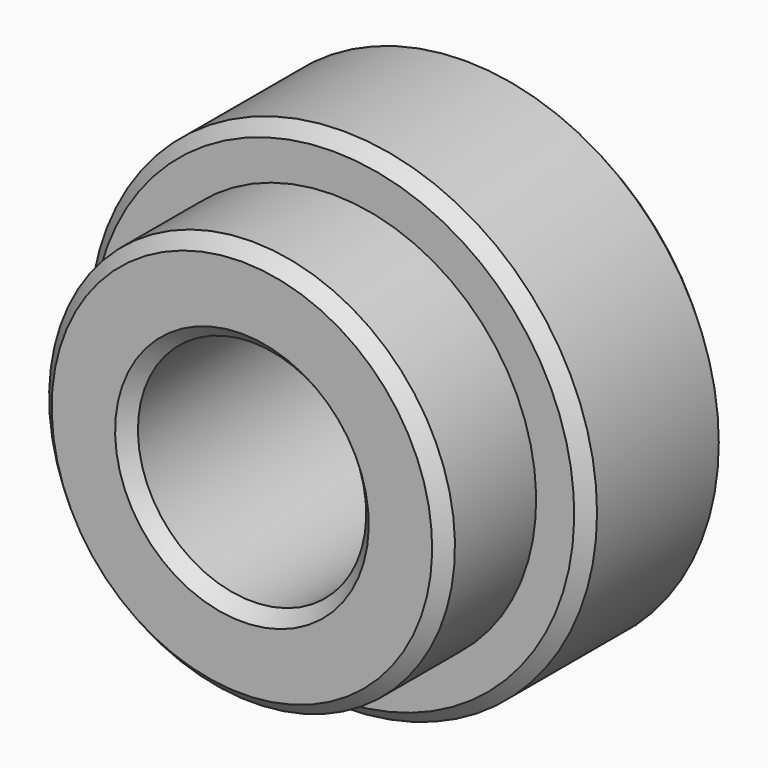
from build123d import *

# Parameters (mm, degrees)
F2_SIZE = 0.5


with BuildPart() as f1:
    # F0 (on Right) → F1 (revolve)
    with BuildSketch(Plane.YZ):
        Polygon((4.5, 8), (0, 8), (0, 4.5), (11.5, 4.5), (11.5, 10), (4.5, 10), align=None)
    revolve(axis=Axis((0, 13.707888, 0), (0, 1, 0)))

    # F2
    f2_edges = [f1.edges().sort_by_distance(p)[0] for p in [
        (0, 11.5, -4.5),
        (0, 0, -4.5),
        (0, 4.5, -10),
        (0, 11.5, -10),
        (0, 0, -8),
    ]]
    chamfer(f2_edges, length=F2_SIZE)


solid = f1.part
